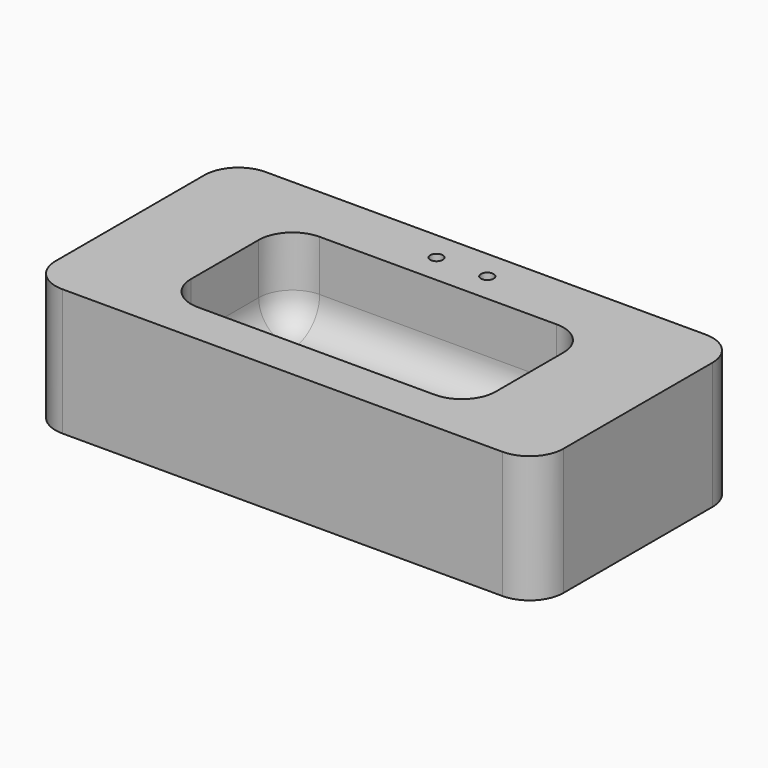
from build123d import *

# Parameters (mm, degrees)
F0_W     = 1524
F0_H     = 762
F1_DEPTH = 381
F2_R     = 101.6
F3_W     = 914.4
F3_H     = 457.2
F4_DEPTH = 254
F5_R     = 101.6
F6_R     = 19.05
F7_DEPTH = 381.001
F8_R     = 19.05
F9_DEPTH = 381.001


with BuildPart() as f1:
    # F0 (on Top) → F1 (new body)
    with BuildSketch(Plane.XY):
        Rectangle(F0_W, F0_H)
    extrude(amount=F1_DEPTH)

    # F2
    f2_edges = [f1.edges().sort_by_distance(p)[0] for p in [
        (-762, 381, 190.5),
        (-762, -381, 190.5),
        (762, -381, 190.5),
        (762, 381, 190.5),
    ]]
    fillet(f2_edges, radius=F2_R)

    # F3 (on face) → F4 (cut)
    with BuildSketch(Plane.XY.offset(381)):
        with Locations((0, -25.4)):
            Rectangle(F3_W, F3_H)
    extrude(amount=-F4_DEPTH, mode=Mode.SUBTRACT)

    # F5
    f5_edges = [f1.edges().sort_by_distance(p)[0] for p in [
        (-457.2, 203.2, 254),
        (457.2, 203.2, 254),
        (457.2, -254, 254),
        (-457.2, -254, 254),
        (-457.2, -25.4, 127),
        (0, -254, 127),
        (457.2, -25.4, 127),
        (0, 203.2, 127),
    ]]
    fillet(f5_edges, radius=F5_R)

    # F6 (on face) → F7 (cut, through all)
    with BuildSketch(Plane.XY.offset(381)):
        with Locations((-76.2, 292.1)):
            Circle(F6_R)
    extrude(amount=-F7_DEPTH, mode=Mode.SUBTRACT)

    # F8 (on face) → F9 (cut, through all)
    with BuildSketch(Plane.XY.offset(381)):
        with Locations((76.2, 292.1)):
            Circle(F8_R)
    extrude(amount=-F9_DEPTH, mode=Mode.SUBTRACT)


solid = f1.part
